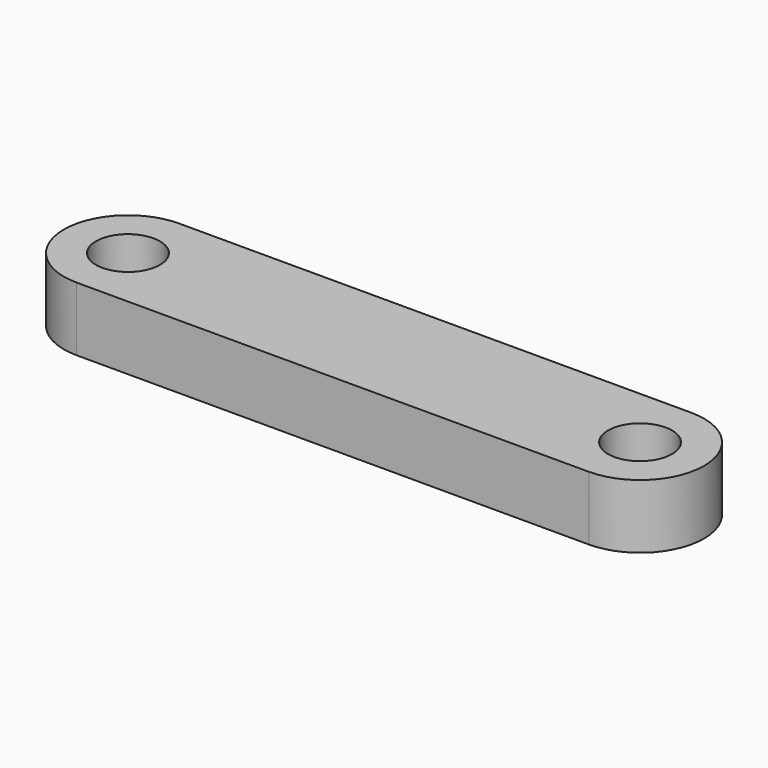
from build123d import *

# Parameters (mm, degrees)
F1_DEPTH = 10
F2_R     = 5
F3_DEPTH = 10.001


with BuildPart() as f1:
    # F0 (on Top) → F1 (new body)
    with BuildSketch(Plane.XY):
        with BuildLine():
            ThreePointArc((0, 20), (-10, 10), (0, 0))
            Line((0, 0), (80, 0))
            ThreePointArc((80, 0), (90, 10), (80, 20))
            Line((80, 20), (0, 20))
        make_face()
    extrude(amount=F1_DEPTH)

    # F2 (on face) → F3 (cut, through all)
    with BuildSketch(Plane.XY.offset(10)):
        with Locations((0, 10)):
            Circle(F2_R)
        with Locations((80, 10)):
            Circle(F2_R)
    extrude(amount=-F3_DEPTH, mode=Mode.SUBTRACT)


solid = f1.part
